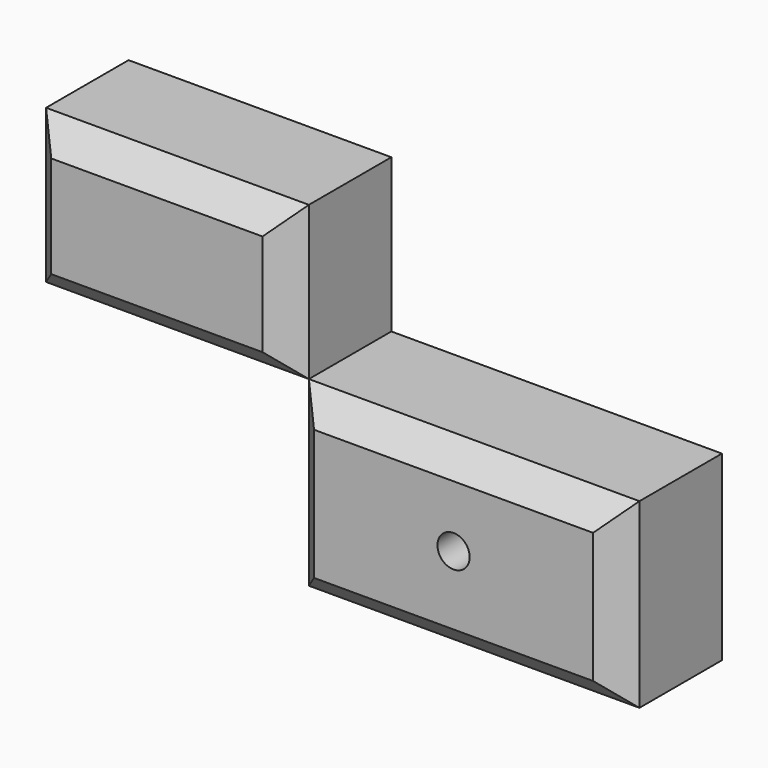
from build123d import *

# Parameters (mm, degrees)
F0_W     = 65.1600956917
F0_H     = 35.869628191
F1_DEPTH = 25.4
F0_W_2   = 51.8044084311
F0_H_2   = 30.234336853
F2_SIZE  = 5.08
F3_SIZE  = 5.08
F5_D     = 6.35


with BuildPart() as f1:
    # F0 (on Front) → F1 (new body)
    with BuildSketch(Plane.XZ):
        with Locations((32.5800478458, -17.9348140955)):
            Rectangle(F0_W, F0_H)
    extrude(amount=F1_DEPTH)

    # F2
    f2_edges = [f1.edges().sort_by_distance(p)[0] for p in [
        (32.580048, -25.4, 0),
        (0, -25.4, -17.934814),
        (32.580048, -25.4, -35.869628),
        (65.160096, -25.4, -17.934814),
    ]]
    chamfer(f2_edges, length=F2_SIZE)

    # F5 (through all)
    with Locations(Plane.XZ.offset(25.4)):
        with Locations((32.5800478458, -17.2162055969)):
            Hole(F5_D / 2)


with BuildPart() as f1b:
    # F0 (on Front) → F1, piece 2 (new body)
    with BuildSketch(Plane.XZ):
        with Locations((-25.9022042155, 15.1171684265)):
            Rectangle(F0_W_2, F0_H_2)
    extrude(amount=F1_DEPTH)

    # F3
    f3_edges = [f1b.edges().sort_by_distance(p)[0] for p in [
        (-25.902204, -25.4, 30.234337),
        (-25.902204, -25.4, 0),
        (0, -25.4, 15.117168),
        (-51.804408, -25.4, 15.117168),
    ]]
    chamfer(f3_edges, length=F3_SIZE)


solid = Compound([f1.part, f1b.part])
